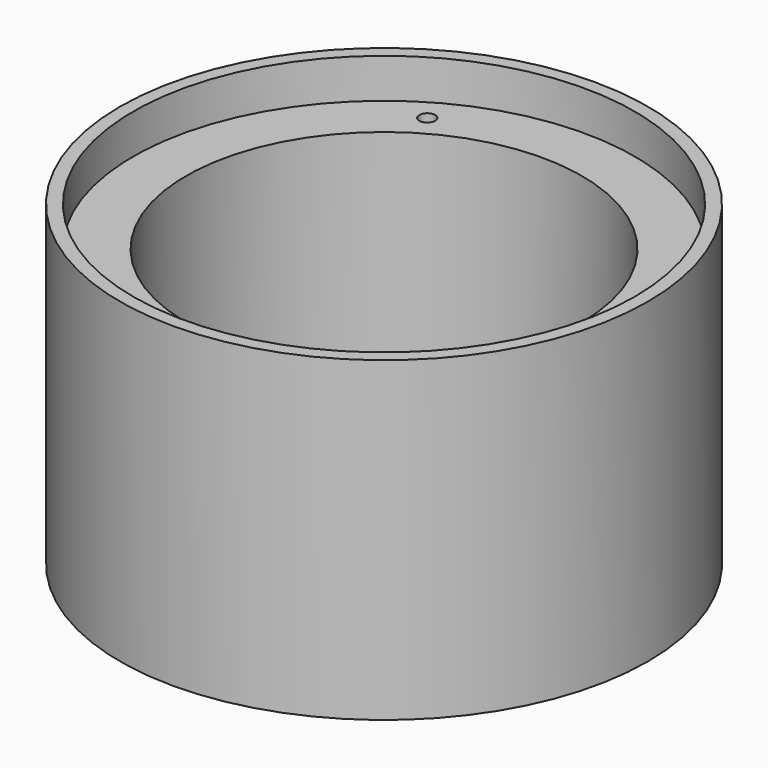
from build123d import *

# Parameters (mm, degrees)
F0_R     = 100
F0_R_2   = 75
F1_DEPTH = 120
F2_R     = 95
F2_R_2   = 75
F3_DEPTH = 15
F4_R     = 95
F4_R_2   = 75
F5_DEPTH = 15
F6_R     = 3
F7_DEPTH = 20
F8_R     = 3
F9_DEPTH = 20


with BuildPart() as f1:
    # F0 (on Top) → F1 (new body)
    with BuildSketch(Plane.XY):
        Circle(F0_R)
        Circle(F0_R_2, mode=Mode.SUBTRACT)
    extrude(amount=F1_DEPTH)

    # F2 (on face) → F3 (cut)
    with BuildSketch(Plane.XY.offset(120)):
        Circle(F2_R)
        Circle(F2_R_2, mode=Mode.SUBTRACT)
    extrude(amount=-F3_DEPTH, mode=Mode.SUBTRACT)

    # F4 (on face) → F5 (cut)
    with BuildSketch(Plane(origin=(0, 0, 0), x_dir=(1, 0, 0), z_dir=(0, 0, -1))):
        Circle(F4_R)
        Circle(F4_R_2, mode=Mode.SUBTRACT)
    extrude(amount=-F5_DEPTH, mode=Mode.SUBTRACT)

    # F6 (on face) → F7 (cut)
    with BuildSketch(Plane(origin=(0, 0, 15), x_dir=(1, 0, 0), z_dir=(0, 0, -1))):
        with Locations((85, 0)):
            Circle(F6_R)
        with Locations((-42.5, -73.6121593217)):
            Circle(F6_R)
        with Locations((-42.5, 73.6121593217)):
            Circle(F6_R)
    extrude(amount=-F7_DEPTH, mode=Mode.SUBTRACT)

    # F8 (on face) → F9 (cut)
    with BuildSketch(Plane.XY.offset(105)):
        with Locations((85, 0)):
            Circle(F8_R)
        with Locations((-42.5, -73.6121593217)):
            Circle(F8_R)
        with Locations((-42.5, 73.6121593217)):
            Circle(F8_R)
    extrude(amount=-F9_DEPTH, mode=Mode.SUBTRACT)


solid = f1.part
